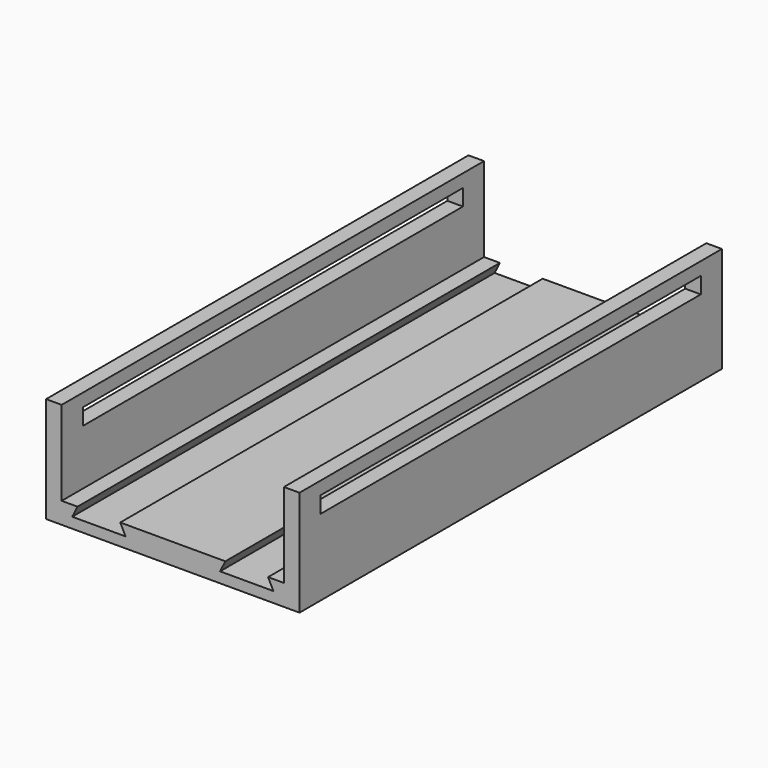
from build123d import *

# Parameters (mm, degrees)
BOX_W           = 50
BOX_H           = 90
BOX_DEPTH       = 3.1
SKETCH005_W     = 48
SKETCH005_H     = 100
PAD003_DEPTH    = 20
SKETCH006_W     = 42.1
SKETCH006_H     = 100
POCKET002_DEPTH = 16
SKETCH007_W     = 8.1
SKETCH007_H     = 100
POCKET003_DEPTH = 2
POCKET004_DEPTH = 100.001


with BuildPart() as cube:
    # Box → Box (new body)
    with BuildSketch(Plane(origin=(-25, -45, -10.55), x_dir=(1, 0, 0), z_dir=(0, 0, 1))):
        with Locations((25, 45)):
            Rectangle(BOX_W, BOX_H)
    extrude(amount=BOX_DEPTH)


with BuildPart() as base:
    # Sketch005 → Pad003 (new body)
    with BuildSketch(Plane.XY):
        Rectangle(SKETCH005_W, SKETCH005_H)
    extrude(amount=PAD003_DEPTH)

    # Sketch006 (on Face6 of Pad003) → Pocket002 (cut)
    with BuildSketch(Plane.XY.offset(20)):
        Rectangle(SKETCH006_W, SKETCH006_H)
    extrude(amount=-POCKET002_DEPTH, mode=Mode.SUBTRACT)

    # Sketch007 (on Face6 of Pocket002) → Pocket003 (cut)
    with BuildSketch(Plane.XY.offset(4)):
        with Locations((-14, 0)):
            Rectangle(SKETCH007_W, SKETCH007_H)
        with Locations((14, 0)):
            Rectangle(SKETCH007_W, SKETCH007_H)
    extrude(amount=-POCKET003_DEPTH, mode=Mode.SUBTRACT)

    # Sketch008 (on Face18 of Pocket003) → Pocket004 (cut, through all)
    with BuildSketch(Plane.XZ.offset(50)):
        Polygon((-18.05, 2), (-19.05, 2), (-18.05, 4), align=None)
        Polygon((-9.95, 2), (-8.95, 2), (-9.95, 4), align=None)
        Polygon((9.95, 2), (8.95, 2), (9.95, 4), align=None)
        Polygon((18.05, 2), (19.05, 2), (18.05, 4), align=None)
    extrude(amount=-POCKET004_DEPTH, mode=Mode.SUBTRACT)


with BuildPart() as base_1:
    # Body003 placement: moved
    add(base.part.moved(Location((0, 0, -25))))

    # Cut002: cut Cube
    add(cube.part, mode=Mode.SUBTRACT)


solid = base_1.part
